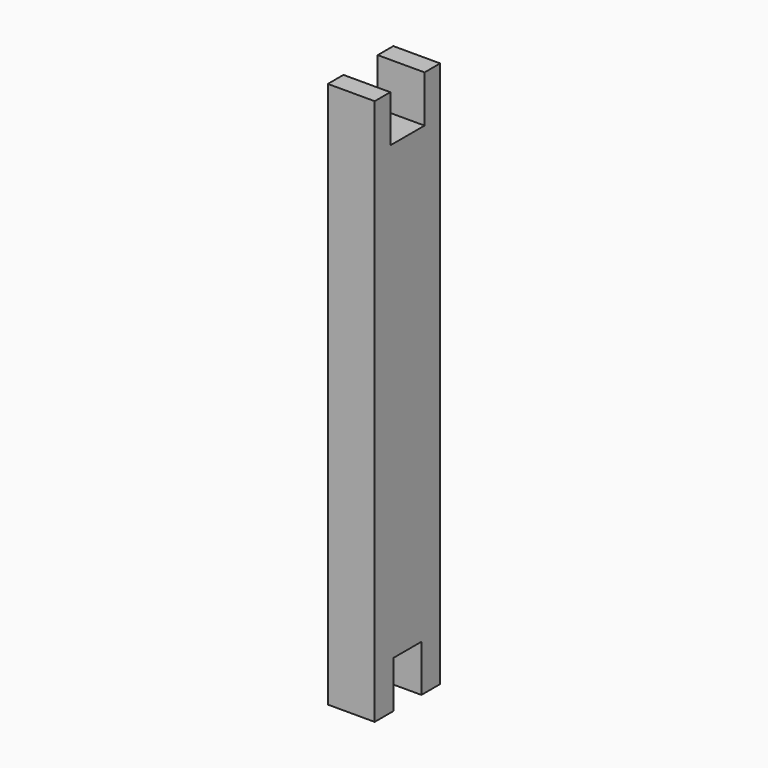
from build123d import *

# Parameters (mm, degrees)
F1_DEPTH = 19.05
F2_DEPTH = 9.525


with BuildPart() as f1:
    # F0 (on Right) → F1 (new body)
    with BuildSketch(Plane.YZ):
        Polygon((-42.835101, 79.173712), (-50.772601, 79.173712), (-50.772601, -143.076288), (-41.234901, -143.076288), (-41.234901, -124.026288), (-34.122901, -124.026288), (-27.010901, -124.026288), (-27.010901, -143.076288), (-17.473201, -143.076288), (-17.473201, 79.173712), (-25.410701, 79.173712), (-25.410701, 60.123712), (-34.122901, 60.123712), (-42.835101, 60.123712), align=None)
    extrude(amount=F1_DEPTH)

    # F0 (on Right) → F2 (join)
    with BuildSketch(Plane.YZ):
        Polygon((-42.835101, 79.173712), (-50.772601, 79.173712), (-50.772601, -143.076288), (-41.234901, -143.076288), (-41.234901, -124.026288), (-34.122901, -124.026288), (-27.010901, -124.026288), (-27.010901, -143.076288), (-17.473201, -143.076288), (-17.473201, 79.173712), (-25.410701, 79.173712), (-25.410701, 60.123712), (-34.122901, 60.123712), (-42.835101, 60.123712), align=None)
    extrude(amount=F2_DEPTH)


solid = f1.part
